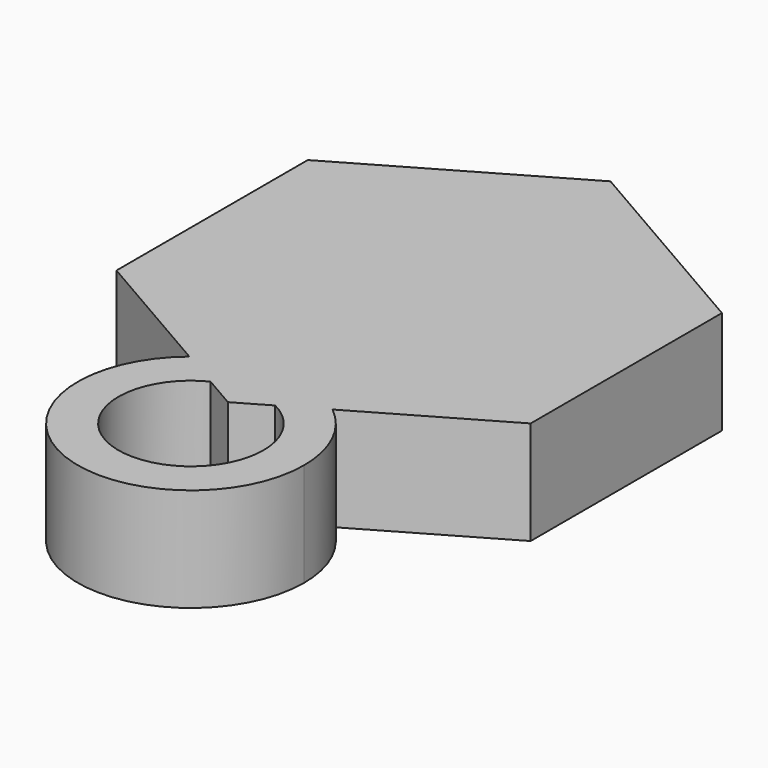
from build123d import *

# Parameters (mm, degrees)
F1_DEPTH = 6.35
F4_DEPTH = 6.35


with BuildPart() as f1:
    # F0 (on Top) → F1 (new body)
    with BuildSketch(Plane.XY):
        Polygon((12.7, -7.3323484187), (12.7, 7.3323484187), (0, 14.6646968374), (-12.7, 7.3323484187), (-12.7, -7.3323484187), (0, -14.6646968374), align=None)
    extrude(amount=F1_DEPTH)

    # F3 (on face) → F4 (join, through all)
    with BuildSketch(Plane(origin=(0, 0, 0), x_dir=(1, 0, 0), z_dir=(0, 0, -1))):
        with BuildLine():
            ThreePointArc((4.3930360984, 12.1283762634), (6.2703188288, 14.5276326774), (6.9390436724, 17.4997411668))
            ThreePointArc((6.9390436724, 17.4997411668), (-2.9721084894, 23.7700599956), (-4.3930360984, 12.1283762634))
            Line((-4.3930360984, 12.1283762634), (-1.9827005664, 13.5199841317))
            ThreePointArc((-1.9827005664, 13.5199841317), (-2.3402873387, 21.2802996927), (4.4462981901, 17.4997411668))
            ThreePointArc((4.4462981901, 17.4997411668), (3.7805585258, 15.1594538282), (1.9827005664, 13.5199841317))
            Line((1.9827005664, 13.5199841317), (4.3930360984, 12.1283762634))
        make_face()
    extrude(amount=-F4_DEPTH)


solid = f1.part
